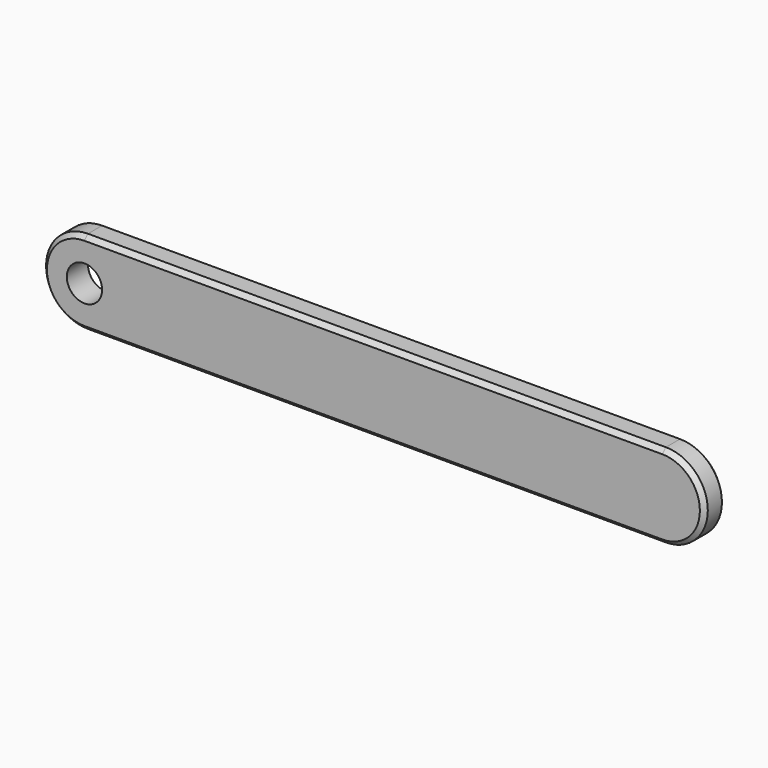
from build123d import *

# Parameters (mm, degrees)
F0_R     = 4
F1_DEPTH = 6
F2_SIZE  = 1


with BuildPart() as f1:
    # F0 (on Front) → F1 (new body)
    with BuildSketch(Plane.XZ):
        with BuildLine():
            Line((65.5, 9.5), (-65.5, 9.5))
            ThreePointArc((-65.5, 9.5), (-75, 0), (-65.5, -9.5))
            Line((-65.5, -9.5), (65.5, -9.5))
            ThreePointArc((65.5, -9.5), (75, 0), (65.5, 9.5))
        make_face()
        with Locations((-65.5, 0)):
            Circle(F0_R, mode=Mode.SUBTRACT)
    extrude(amount=F1_DEPTH)

    # F2
    f2_edges = [f1.edges().sort_by_distance(p)[0] for p in [
        (0, -6, -9.5),
        (0, 0, -9.5),
    ]]
    chamfer(f2_edges, length=F2_SIZE)


solid = f1.part
